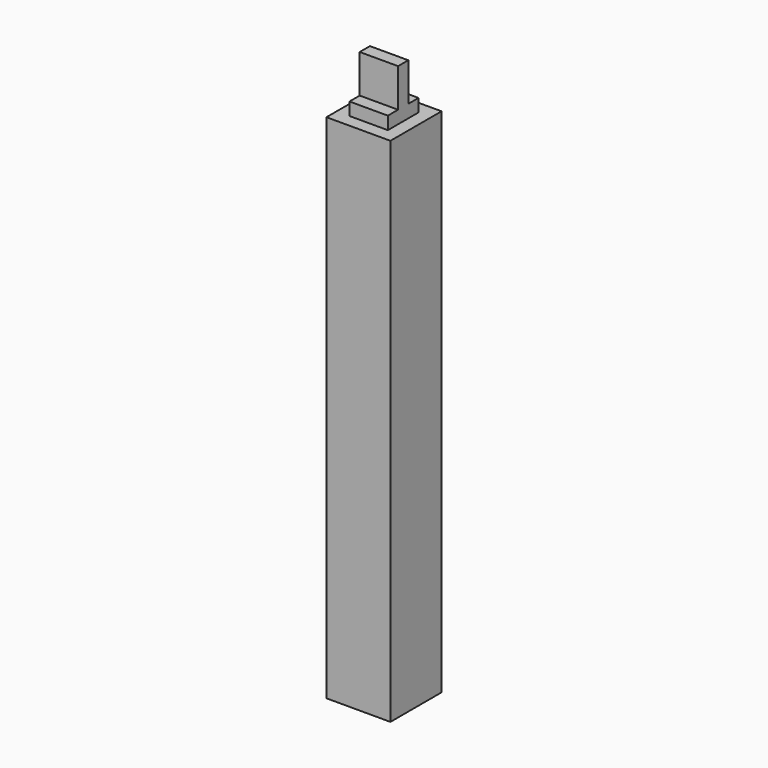
from build123d import *

# Parameters (mm, degrees)
F0_W     = 50
F0_H     = 50
F1_DEPTH = 400
F2_W     = 30
F2_H     = 30
F3_DEPTH = 40
F4_W     = 30
F4_H     = 10
F5_DEPTH = 30


with BuildPart() as f1:
    # F0 (on Top) → F1 (new body)
    with BuildSketch(Plane.XY):
        with Locations((-25, -25)):
            Rectangle(F0_W, F0_H)
    extrude(amount=-F1_DEPTH)

    # F2 (on face) → F3 (join)
    with BuildSketch(Plane.XY):
        with Locations((-25, -25)):
            Rectangle(F2_W, F2_H)
    extrude(amount=F3_DEPTH)

    # F4 (on face) → F5 (cut)
    with BuildSketch(Plane.XY.offset(40)):
        with Locations((-25, -35)):
            Rectangle(F4_W, F4_H)
        with Locations((-25, -15)):
            Rectangle(F4_W, F4_H)
    extrude(amount=-F5_DEPTH, mode=Mode.SUBTRACT)


solid = f1.part
